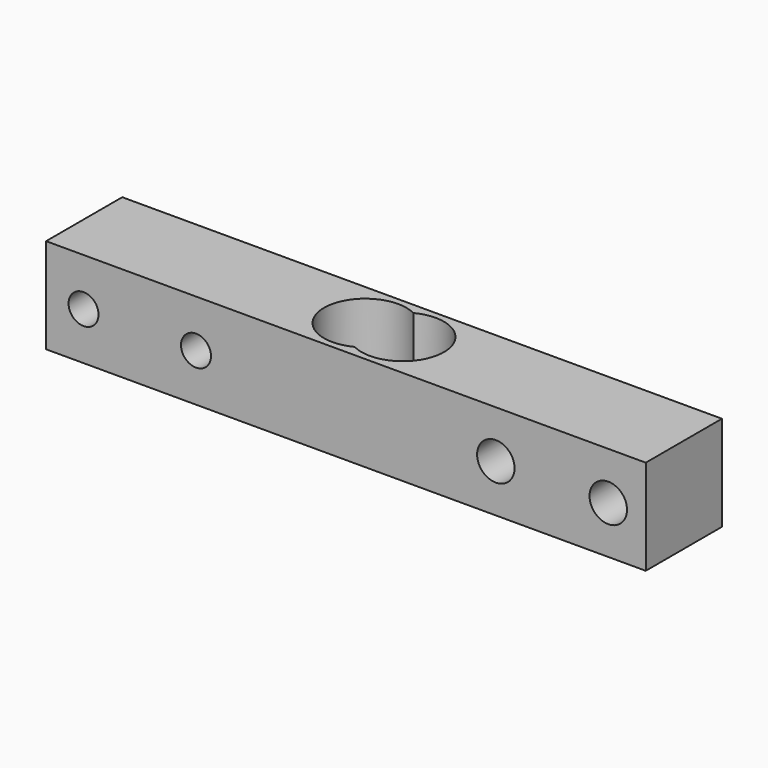
from build123d import *

# Parameters (mm, degrees)
SKETCH_W          = 80
SKETCH_H          = 12.7
PAD_DEPTH         = 12.7
SKETCH001_R       = 2
SKETCH001_R_2     = 2.5
POCKET_DEPTH      = 6.351
POCKET_DEPTH_BACK = -6.351


with BuildPart() as part:
    # Sketch → Pad (new body)
    with BuildSketch(Plane.XY):
        Rectangle(SKETCH_W, SKETCH_H)
        with BuildLine():
            ThreePointArc((0, -4.898979), (8, 0), (0, 4.898979))
            ThreePointArc((0, 4.898979), (-8, 0), (0, -4.898979))
        make_face(mode=Mode.SUBTRACT)
    extrude(amount=PAD_DEPTH)

    # Sketch001 → Pocket (cut, two sides)
    with BuildSketch(Plane.XZ) as pocket_sk:
        with Locations((-35, 6.35)):
            Circle(SKETCH001_R)
        with Locations((-20, 6.35)):
            Circle(SKETCH001_R)
        with Locations((20, 6.35)):
            Circle(SKETCH001_R_2)
        with Locations((35, 6.35)):
            Circle(SKETCH001_R_2)
    extrude(amount=-POCKET_DEPTH, mode=Mode.SUBTRACT)
    extrude(pocket_sk.sketch, amount=-POCKET_DEPTH_BACK, mode=Mode.SUBTRACT)


solid = part.part
